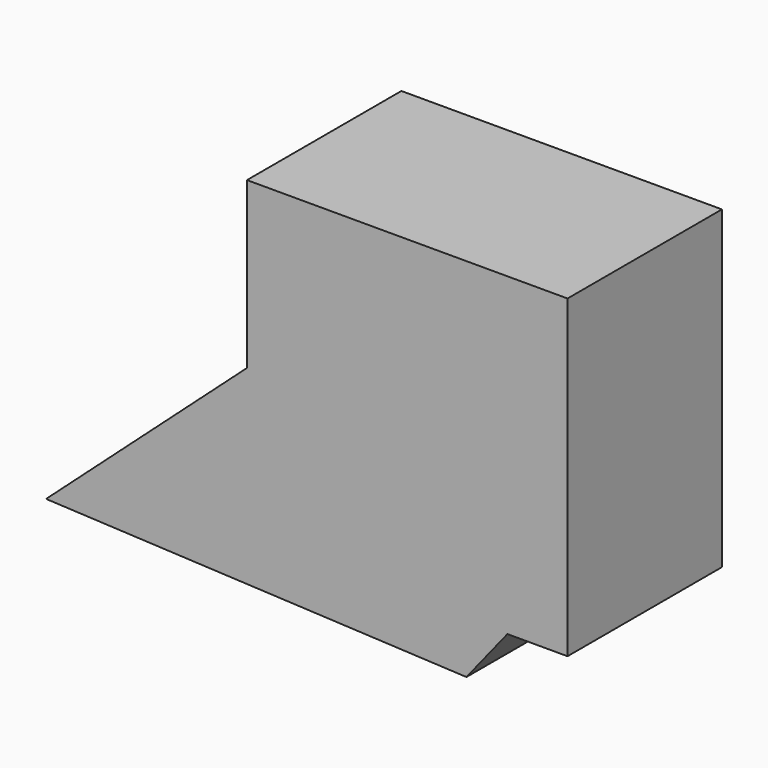
from build123d import *

# Parameters (mm, degrees)
F1_DEPTH = 78.994


with BuildPart() as f1:
    # F0 (on Front) → F1 (new body)
    with BuildSketch(Plane.XZ):
        Polygon((-24.6114916293, -21.4904136956), (0, -21.4904136956), (0, 9.2619154602), align=None)
        Polygon((-41.3730964065, -42.4342229962), (-24.6114916293, -21.4904136956), (-131.2030255795, -21.4904136956), (-131.2030255795, 3.5869509447), (-131.2030255795, 32.4510708451), (-131.2030255795, 39.7242493927), (-213.4358882904, -34.2026762664), align=None)
        Polygon((-131.2030255795, -21.4904136956), (-24.6114916293, -21.4904136956), (0, 9.2619154602), (-131.2030255795, 3.5869509447), align=None)
        Polygon((-131.2030255795, 3.5869509447), (0, 9.2619154602), (0, 107.4266694486), (-131.2030255795, 107.4266694486), (-131.2030255795, 39.7242493927), (-131.2030255795, 32.4510708451), align=None)
    extrude(amount=F1_DEPTH)


solid = f1.part
